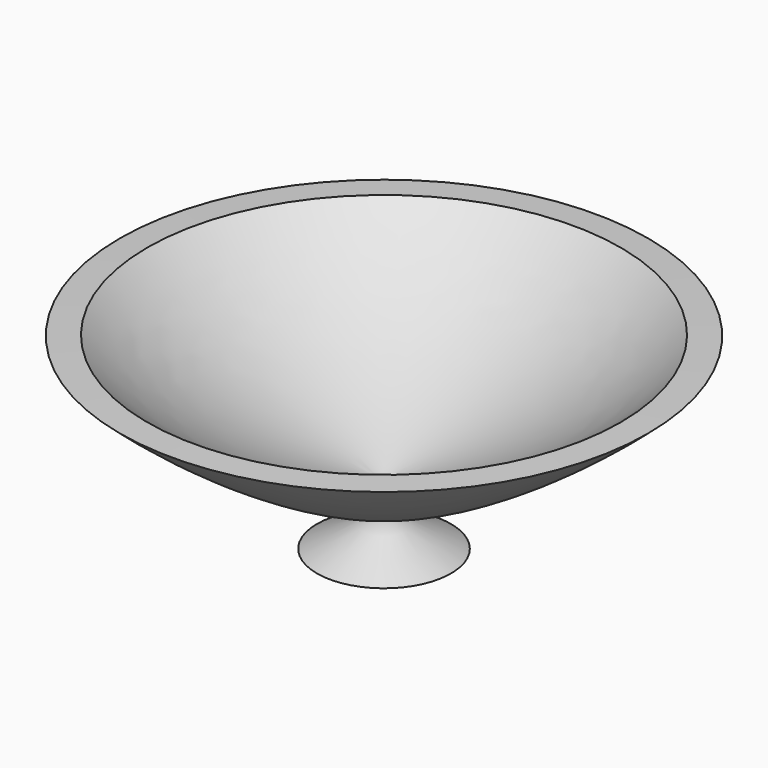
from build123d import *


with BuildPart() as f1:
    # F0 (on Front) → F1 (revolve)
    with BuildSketch(Plane.XZ):
        with BuildLine():
            Line((-55.068616, 10.149165), (-61.458834, 9.961218))
            ThreePointArc((-61.458834, 9.961218), (-32.489764, -10.923446), (0, -25.748808))
            Line((0, -25.748808), (0, -19.922435))
            ThreePointArc((0, -19.922435), (-29.143434, -7.833347), (-55.068616, 10.149165))
        make_face()
        Polygon((0, -34.056812), (0, -25.748808), (-15.599643, -33.642605), align=None)
    revolve(axis=Axis((0, 0, 2.161395), (0, 0, -1)))


solid = f1.part
